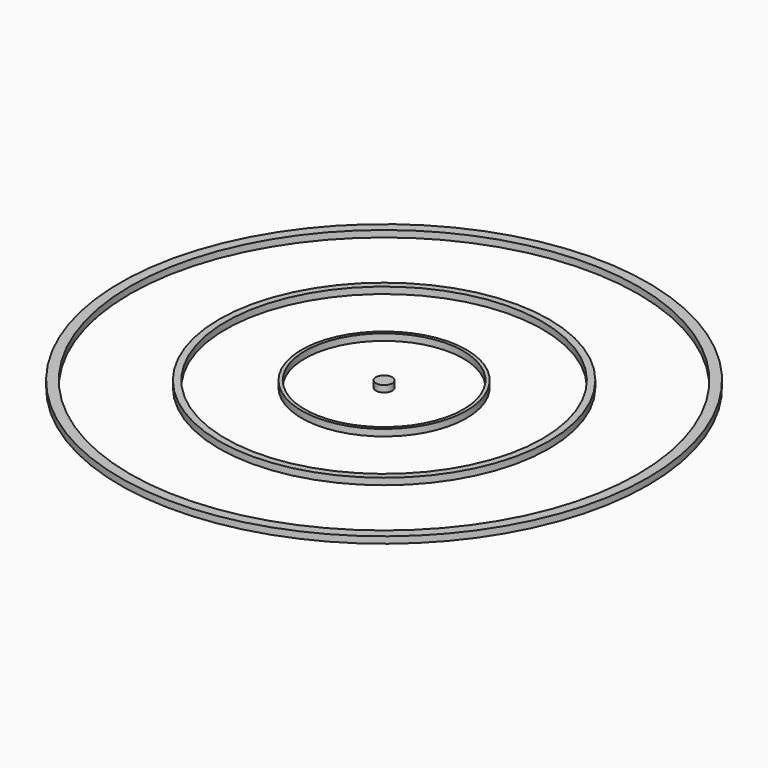
from build123d import *

# Parameters (mm, degrees)
F0_R     = 50
F0_R_2   = 48
F1_DEPTH = 2
F0_R_3   = 80
F0_R_4   = 77
F0_R_5   = 25
F0_R_6   = 24
F0_R_7   = 2.5


with BuildPart() as f1:
    # F0 (on Top) → F1 (new body)
    with BuildSketch(Plane.XY):
        Circle(F0_R)
        Circle(F0_R_2, mode=Mode.SUBTRACT)
    extrude(amount=F1_DEPTH)


with BuildPart() as f1b:
    # F0 (on Top) → F1, piece 2 (new body)
    with BuildSketch(Plane.XY):
        Circle(F0_R_3)
        Circle(F0_R_4, mode=Mode.SUBTRACT)
    extrude(amount=F1_DEPTH)


with BuildPart() as f1c:
    # F0 (on Top) → F1, piece 3 (new body)
    with BuildSketch(Plane.XY):
        Circle(F0_R_5)
        Circle(F0_R_6, mode=Mode.SUBTRACT)
    extrude(amount=F1_DEPTH)


with BuildPart() as f1d:
    # F0 (on Top) → F1, piece 4 (new body)
    with BuildSketch(Plane.XY):
        Circle(F0_R_7)
    extrude(amount=F1_DEPTH)


solid = Compound([f1.part, f1b.part, f1c.part, f1d.part])
